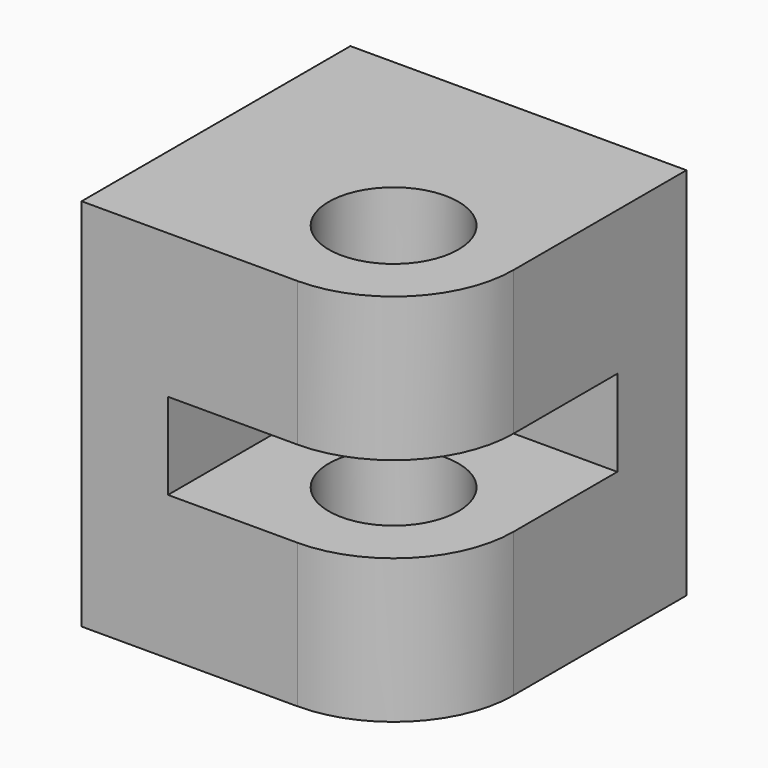
from build123d import *

# Parameters (mm, degrees)
F0_W     = 5.2
F0_H     = 1.8
F0_H_2   = 5.2
F0_R     = 1.35
F1_DEPTH = 3
F2_W     = 5.2
F2_H     = 1.8
F3_DEPTH = 1.8
F4_W     = 7
F4_H     = 7
F4_R     = 1.35
F5_DEPTH = 3
F6_R     = 2.5


with BuildPart() as f1:
    # F0 (on Top) → F1 (new body)
    with BuildSketch(Plane.XY):
        with Locations((-0.1, 3.6)):
            Rectangle(F0_W, F0_H)
        Polygon((-4.5, -2.5), (-2.7, -2.5), (-2.7, 2.7), (-2.7, 4.5), (-4.5, 4.5), align=None)
        with Locations((-0.1, 0.1)):
            Rectangle(F0_W, F0_H_2)
        Circle(F0_R, mode=Mode.SUBTRACT)
    extrude(amount=-F1_DEPTH)

    # F0 (on Top) + F2 (on face) → F3 (join)
    with BuildSketch(Plane.XY):
        Polygon((-4.5, -2.5), (-2.7, -2.5), (-2.7, 2.7), (-2.7, 4.5), (-4.5, 4.5), align=None)
    with BuildSketch(Plane.XY):
        with Locations((-0.1, 3.6)):
            Rectangle(F2_W, F2_H)
    extrude(amount=F3_DEPTH)

    # F4 (on face) → F5 (join)
    with BuildSketch(Plane.XY.offset(1.8)):
        with Locations((-1, 1)):
            Rectangle(F4_W, F4_H)
        Circle(F4_R, mode=Mode.SUBTRACT)
        with Locations((-1, 1)):
            Rectangle(F4_W, F4_H)
        Circle(F4_R, mode=Mode.SUBTRACT)
    extrude(amount=F5_DEPTH)

    # F6
    f6_edges = [f1.edges().sort_by_distance(p)[0] for p in [
        (2.5, -2.5, 3.3),
        (2.5, -2.5, -1.5),
    ]]
    fillet(f6_edges, radius=F6_R)


solid = f1.part
